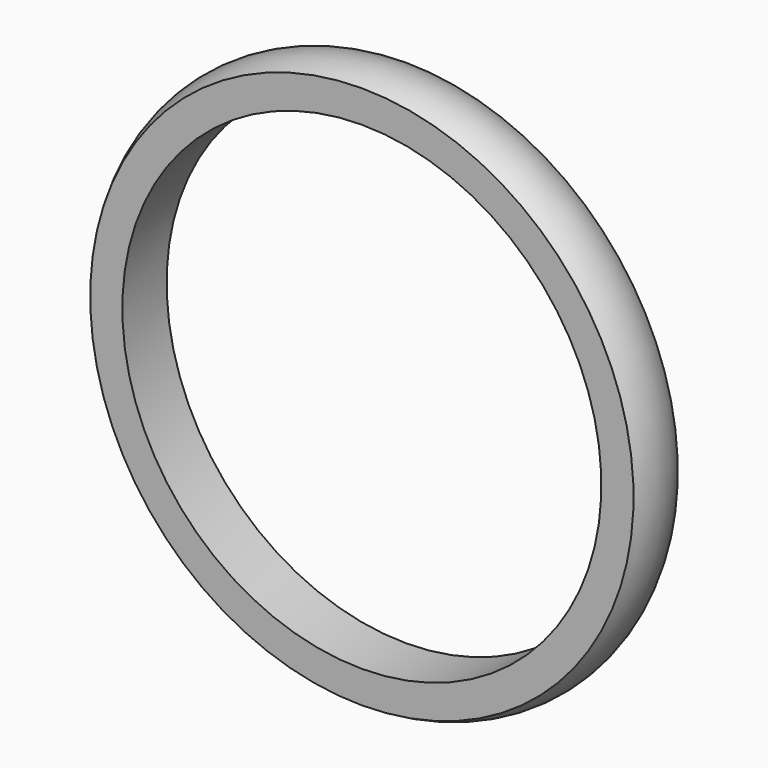
from build123d import *


with BuildPart() as f1:
    # F0 (on Right) → F1 (revolve)
    with BuildSketch(Plane.YZ):
        with BuildLine():
            Line((-6.604, 64.822912), (-6.604, 57.15))
            Line((-6.604, 57.15), (6.604, 57.15))
            Line((6.604, 57.15), (6.604, 64.822912))
            ThreePointArc((6.604, 64.822912), (0, 66.675), (-6.604, 64.822912))
        make_face()
    revolve(axis=Axis((0, 0.452392, 0), (0, 1, 0)))


solid = f1.part
